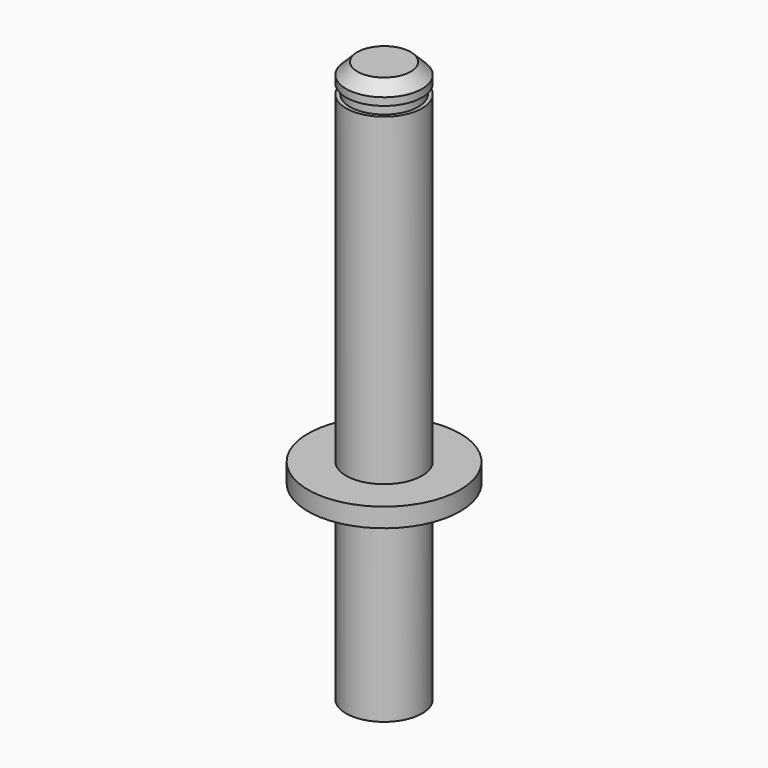
from build123d import *

# Parameters (mm, degrees)
F0_R     = 2
F1_DEPTH = 10
F2_R     = 4
F3_DEPTH = 1
F4_R     = 2
F5_DEPTH = 17
F6_R     = 1.8
F7_DEPTH = 0.5
F8_R     = 2
F8_R_2   = 1.8
F9_DEPTH = 1
F10_SIZE = 0.6


with BuildPart() as f1:
    # F0 (on Top) → F1 (new body)
    with BuildSketch(Plane.XY):
        Circle(F0_R)
    extrude(amount=-F1_DEPTH)

    # F2 (on Top) → F3 (join)
    with BuildSketch(Plane.XY):
        Circle(F2_R)
    extrude(amount=F3_DEPTH)

    # F4 (on face) → F5 (join)
    with BuildSketch(Plane.XY.offset(1)):
        Circle(F4_R)
    extrude(amount=F5_DEPTH)

    # F6 (on face) → F7 (join)
    with BuildSketch(Plane.XY.offset(18)):
        Circle(F6_R)
    extrude(amount=F7_DEPTH)

    # F8 (on face) → F9 (join)
    with BuildSketch(Plane.XY.offset(18.5)):
        Circle(F8_R)
        Circle(F8_R_2, mode=Mode.SUBTRACT)
        Circle(F8_R_2)
    extrude(amount=F9_DEPTH)

    # F10
    f10_edges = [f1.edges().sort_by_distance(p)[0] for p in [
        (-2, 0, 19.5),
    ]]
    chamfer(f10_edges, length=F10_SIZE)


solid = f1.part
